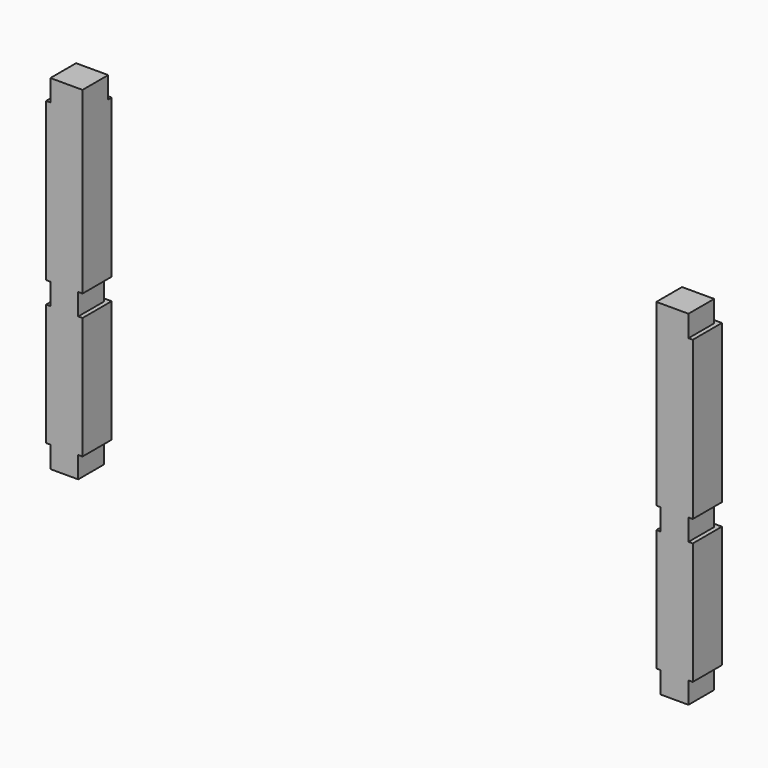
from build123d import *

# Parameters (mm, degrees)
F0_W      = 127
F0_H      = 127
F1_DEPTH  = 1200
F3_DEPTH  = 75
F5_START  = -500
F5_DEPTH  = 75
F9_DEPTH  = 75
F11_DEPTH = 75


with BuildPart() as f1:
    # F0 (on Top) → F1 (new body)
    with BuildSketch(Plane.XY):
        with Locations((63.5, 63.5)):
            Rectangle(F0_W, F0_H)
    extrude(amount=F1_DEPTH)

    # F2 (on face) → F3 (cut)
    with BuildSketch(Plane.XY.offset(1200)):
        Polygon((0, 127), (0, 0), (15, 0), (15, 112), (127, 112), (127, 127), align=None)
    extrude(amount=-F3_DEPTH, mode=Mode.SUBTRACT)

    # F4 (on face) → F5 (cut)
    with BuildSketch(Plane(origin=(0, 0, 0), x_dir=(1, 0, 0), z_dir=(0, 0, -1)).offset(F5_START)):
        Polygon((15, 0), (0, 0), (0, -127), (127, -127), (127, 0), (112, 0), (112, -112), (15, -112), align=None)
    extrude(amount=-F5_DEPTH, mode=Mode.SUBTRACT)


with BuildPart() as f7_1:
    # F7: instance of F1
    add(f1.part.mirror(Plane.YZ.offset(1127)))

    # F8 (on face) → F9 (cut)
    with BuildSketch(Plane(origin=(0, 0, 0), x_dir=(1, 0, 0), z_dir=(0, 0, -1))):
        Polygon((2254, -127), (2254, 0), (2239, 0), (2239, -112), (2142, -112), (2142, 0), (2127, 0), (2127, -127), align=None)
    extrude(amount=-F9_DEPTH, mode=Mode.SUBTRACT)


with BuildPart() as f1_1:
    add(f1.part)

    # F10 (on face) → F11 (cut)
    with BuildSketch(Plane(origin=(0, 0, 0), x_dir=(1, 0, 0), z_dir=(0, 0, -1))):
        Polygon((127, -127), (127, 0), (112, 0), (112, -112), (15, -112), (15, 0), (0, 0), (0, -127), align=None)
    extrude(amount=-F11_DEPTH, mode=Mode.SUBTRACT)


solid = Compound([f7_1.part, f1_1.part])
